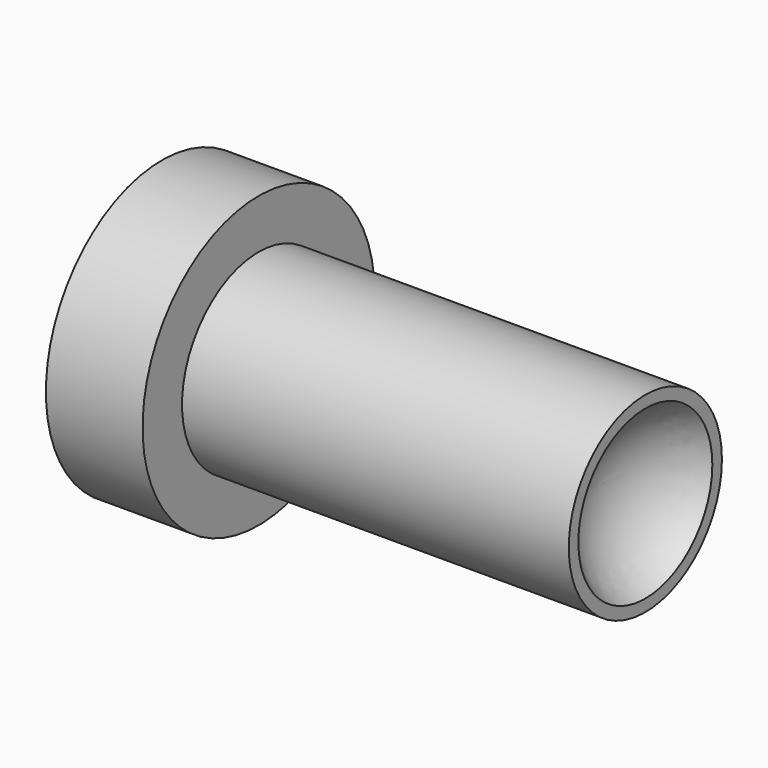
from build123d import *

# Parameters (mm, degrees)
F0_R     = 19.05
F1_DEPTH = 12.7
F2_R     = 12.573
F3_DEPTH = 50.8


with BuildPart() as f1:
    # F0 (on Right) → F1 (new body)
    with BuildSketch(Plane.YZ):
        Circle(F0_R)
    extrude(amount=F1_DEPTH)

    # F2 (on face) → F3 (join)
    with BuildSketch(Plane.YZ.offset(12.7)):
        Circle(F2_R)
    extrude(amount=F3_DEPTH)

    # F4 (on Top) → F6 (revolve, cut)
    with BuildSketch(Plane.XY):
        with BuildLine():
            Line((63.5, 0), (63.5, 10.998523))
            ThreePointArc((63.5, 10.998523), (58.851477, 6.35), (57.15, 0))
            Line((57.15, 0), (63.5, 0))
        make_face()
    revolve(axis=Axis((67.948606, 0, 0), (-1, 0, 0)), mode=Mode.SUBTRACT)


solid = f1.part
